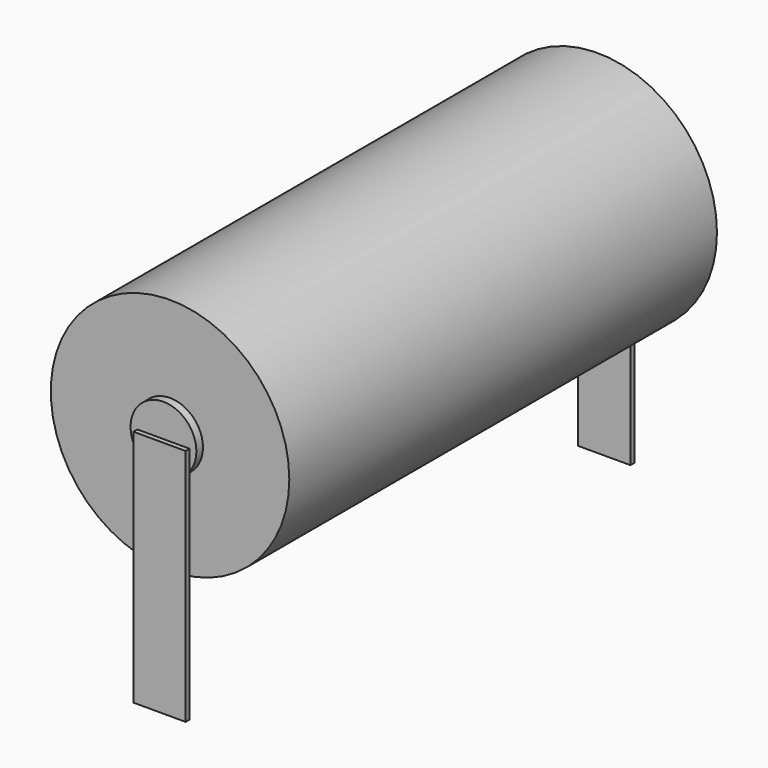
from build123d import *

# Parameters (mm, degrees)
F0_R     = 7.25
F1_DEPTH = 32.5
F2_R     = 4.5
F3_DEPTH = 0.5
F5_R     = 2
F6_DEPTH = 0.5
F7_W     = 3.175
F7_H     = 0.3
F8_DEPTH = 14.5


with BuildPart() as f1:
    # F0 (on Front) → F1 (new body)
    with BuildSketch(Plane.XZ):
        Circle(F0_R)
    extrude(amount=F1_DEPTH)

    # F2 (on Front) → F3 (join)
    with BuildSketch(Plane.XZ):
        Circle(F2_R)
    extrude(amount=-F3_DEPTH)

    # F5 (on offset) → F6 (join)
    with BuildSketch(Plane.XZ.offset(32.5)):
        Circle(F5_R)
    extrude(amount=F6_DEPTH)

    # F7 (on Top) → F8 (join)
    with BuildSketch(Plane.XY):
        with Locations((0, 0.65)):
            Rectangle(F7_W, F7_H)
        with Locations((0, -33.15)):
            Rectangle(F7_W, F7_H)
    extrude(amount=-F8_DEPTH)


solid = f1.part
